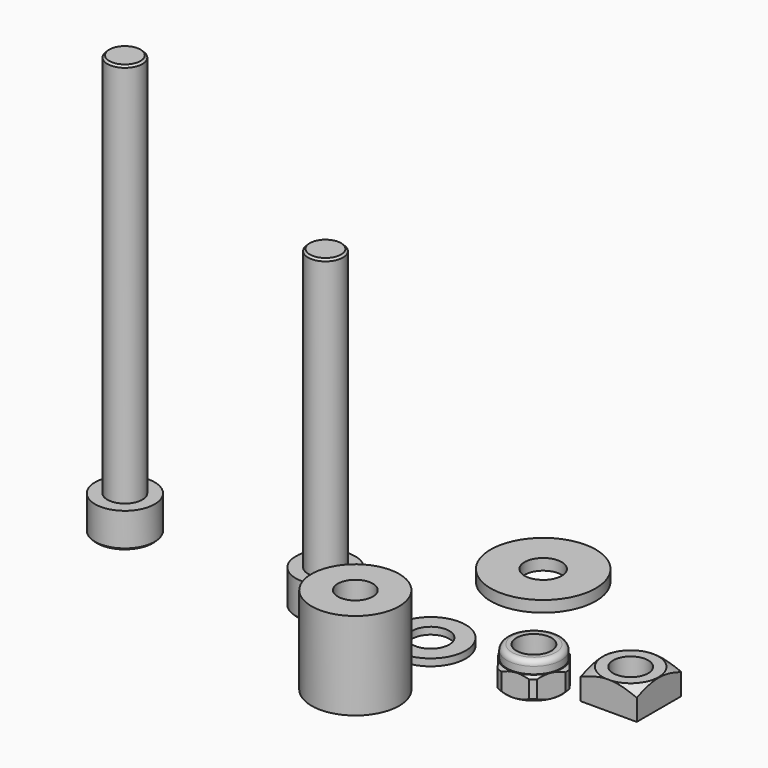
from build123d import *

# Parameters (mm, degrees)
F3_DEPTH  = 2.5
F4_R      = 5
F4_R_2    = 2.65
F5_DEPTH  = 1
F6_R      = 4.395
F6_R_2    = 2.5
F7_DEPTH  = 3.25
F8_SIZE   = 0.395
F9_R      = 6.6262147002
F10_DEPTH = 25
F11_R     = 3.875
F11_R_2   = 2.5
F12_DEPTH = 1.75
F13_R     = 0.75
F14_R     = 5.6568542495
F14_R_2   = 2.5
F15_DEPTH = 4
F16_SIZE2 = 0.9641749495
F16_SIZE  = 1.67
F17_W     = 15.1353180408
F17_H     = 15.3016392142
F17_W_2   = 7.9996718913
F17_H_2   = 7.9996718913
F18_DEPTH = 4.001
F22_DEPTH = 2.5
F23_R     = 6.25
F23_R_2   = 2.5
F24_DEPTH = 12.5
F25_R     = 7.5
F25_R_2   = 2.65
F26_DEPTH = 1.6


with BuildPart() as f1:
    # F0 (on Front) → F1 (revolve)
    with BuildSketch(Plane.XZ):
        Polygon((-2.5, 5), (-4.25, 5), (-4.25, 0.2828427125), (-3.9671572875, 0), (0, 0), (0, 5), (0, 45), (-2.2171572875, 45), (-2.5, 44.7171572875), align=None)
    revolve(axis=Axis((0, 0, 25), (0, 0, 1)))

    # F2 (on face) → F3 (cut)
    with BuildSketch(Plane(origin=(0, 0, 0), x_dir=(1, 0, 0), z_dir=(0, 0, -1))):
        Polygon((2.2789204629, 0.3739717329), (0.8155912105, 2.1605888805), (-1.4633292524, 1.7866171477), (-2.2789204629, -0.3739717329), (-0.8155912105, -2.1605888805), (1.4633292524, -1.7866171477), align=None)
    extrude(amount=-F3_DEPTH, mode=Mode.SUBTRACT)


with BuildPart() as f5:
    # F4 (on Top) → F5 (new body)
    with BuildSketch(Plane.XY):
        with Locations((14.961370267, 0.0596389182)):
            Circle(F4_R)
        with Locations((14.961370267, 0.0596389182)):
            Circle(F4_R_2, mode=Mode.SUBTRACT)
    extrude(amount=F5_DEPTH)


with BuildPart() as f7:
    # F6 (on Top) → F7 (new body)
    with BuildSketch(Plane.XY):
        with Locations((29.7387912412, 0)):
            Circle(F6_R)
        with Locations((29.7387912412, 0)):
            Circle(F6_R_2, mode=Mode.SUBTRACT)
    extrude(amount=F7_DEPTH)

    # F8
    f8_edges = [f7.edges().sort_by_distance(p)[0] for p in [
        (27.238791, 0, 0),
        (25.343791, 0, 0),
        (25.343791, 0, 3.25),
    ]]
    chamfer(f8_edges, length=F8_SIZE)

    # F9 (on face) → F10 (cut)
    with BuildSketch(Plane(origin=(0, 0, 0), x_dir=(1, 0, 0), z_dir=(0, 0, -1))):
        with Locations((29.7387912412, 0)):
            Circle(F9_R)
        Polygon((26.9423711402, -3.676053312), (25.1570256369, 0.5837441911), (27.9534457378, 4.259797503), (32.5352113421, 3.676053312), (34.3205568454, -0.5837441911), (31.5241367445, -4.259797503), align=None, mode=Mode.SUBTRACT)
    extrude(amount=-F10_DEPTH, mode=Mode.SUBTRACT)

    # F11 (on face) → F12 (join)
    with BuildSketch(Plane.XY.offset(3.25)):
        with Locations((29.7387912412, 0)):
            Circle(F11_R)
        with Locations((29.7387912412, 0)):
            Circle(F11_R_2, mode=Mode.SUBTRACT)
    extrude(amount=F12_DEPTH)

    # F13
    f13_edges = [f7.edges().sort_by_distance(p)[0] for p in [
        (25.863791, 0, 5),
    ]]
    fillet(f13_edges, radius=F13_R)


with BuildPart() as f15:
    # F14 (on Top) → F15 (new body)
    with BuildSketch(Plane.XY):
        with Locations((40.3399839997, 4)):
            Circle(F14_R)
        with Locations((40.3399839997, 4)):
            Circle(F14_R_2, mode=Mode.SUBTRACT)
    extrude(amount=F15_DEPTH)

    # F16
    f16_edges = [f15.edges().sort_by_distance(p)[0] for p in [
        (34.68313, 4, 4),
    ]]
    f16_side = f15.faces().sort_by_distance((34.84313, 4, 4))[0]
    chamfer(f16_edges, length=F16_SIZE, length2=F16_SIZE2, reference=f16_side)

    # F17 (on face) → F18 (cut, through all)
    with BuildSketch(Plane.XY.offset(4)):
        with Locations((41.0747788846, 4.0218560025)):
            Rectangle(F17_W, F17_H)
        with Locations((40.3762111713, 4.0362271715)):
            Rectangle(F17_W_2, F17_H_2, mode=Mode.SUBTRACT)
    extrude(amount=-F18_DEPTH, mode=Mode.SUBTRACT)


with BuildPart() as f20:
    # F19 (on Front) → F20 (revolve)
    with BuildSketch(Plane.XZ):
        Polygon((-31.117204776, 5), (-32.867204776, 5), (-32.867204776, 0.2828427125), (-32.5843620636, 0), (-28.617204776, 0), (-28.617204776, 5), (-28.617204776, 60), (-30.8343620636, 60), (-31.117204776, 59.7171572875), align=None)
    revolve(axis=Axis((-28.617204776, 0, 32.5), (0, 0, 1)))

    # F21 (on face) → F22 (cut)
    with BuildSketch(Plane(origin=(0, 0, 0), x_dir=(1, 0, 0), z_dir=(0, 0, -1))):
        Polygon((-26.510462039, 0.946027681), (-28.3831174119, 2.29750657), (-30.489860149, 1.351478889), (-30.7239475131, -0.946027681), (-28.8512921401, -2.29750657), (-26.7445494031, -1.351478889), align=None)
    extrude(amount=-F22_DEPTH, mode=Mode.SUBTRACT)


with BuildPart() as f24:
    # F23 (on Top) → F24 (new body)
    with BuildSketch(Plane.XY):
        with Locations((15.0353042409, -13.468246907)):
            Circle(F23_R)
        with Locations((15.0353042409, -13.468246907)):
            Circle(F23_R_2, mode=Mode.SUBTRACT)
    extrude(amount=F24_DEPTH)


with BuildPart() as f26:
    # F25 (on Top) → F26 (new body)
    with BuildSketch(Plane.XY):
        with Locations((15.1029657573, 19.9452657253)):
            Circle(F25_R)
        with Locations((15.1029657573, 19.9452657253)):
            Circle(F25_R_2, mode=Mode.SUBTRACT)
    extrude(amount=F26_DEPTH)


solid = Compound([f1.part, f5.part, f7.part, f15.part, f20.part, f24.part, f26.part])
